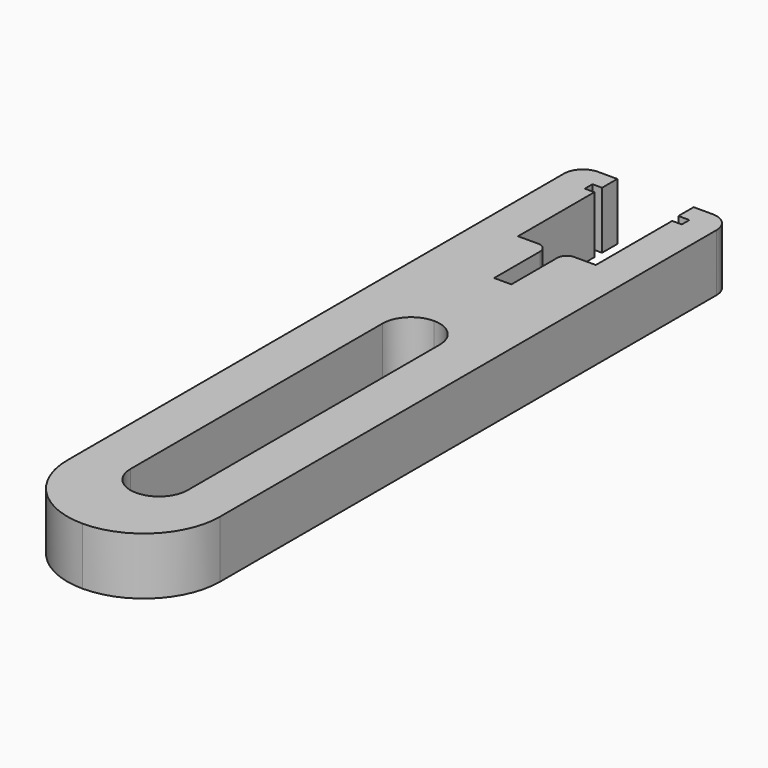
from build123d import *

# Parameters (mm, degrees)
F1_DEPTH = 6


with BuildPart() as f1:
    # F0 (on Top) → F1 (new body)
    with BuildSketch(Plane.XY):
        with BuildLine():
            ThreePointArc((2.672569, 65.670302), (1.258356, 65.084515), (0.672569, 63.670302))
            Line((0.672569, 63.670302), (0.672569, -1.329698))
            ThreePointArc((0.672569, -1.329698), (3.015715, -6.986552), (8.672569, -9.329698))
            ThreePointArc((8.672569, -9.329698), (14.329423, -6.986552), (16.672569, -1.329698))
            Line((16.672569, -1.329698), (16.672569, 63.670302))
            ThreePointArc((16.672569, 63.670302), (16.086783, 65.084515), (14.672569, 65.670302))
            Line((14.672569, 65.670302), (12.672569, 65.670302))
            Line((12.672569, 65.670302), (12.672569, 63.670302))
            Line((12.672569, 63.670302), (13.822569, 63.670302))
            Line((13.822569, 63.670302), (13.822569, 62.670302))
            Line((13.822569, 62.670302), (12.822569, 62.670302))
            Line((12.822569, 62.670302), (12.822569, 52.670302))
            Line((12.822569, 52.670302), (10.572569, 52.670302))
            ThreePointArc((10.572569, 52.670302), (9.865462, 52.377409), (9.572569, 51.670302))
            Line((9.572569, 51.670302), (9.572569, 45.670302))
            Line((9.572569, 45.670302), (7.772569, 45.670302))
            Line((7.772569, 45.670302), (7.772569, 51.670302))
            ThreePointArc((7.772569, 51.670302), (7.479676, 52.377409), (6.772569, 52.670302))
            Line((6.772569, 52.670302), (4.672569, 52.670302))
            Line((4.672569, 52.670302), (4.672569, 62.670302))
            Line((4.672569, 62.670302), (3.672569, 62.670302))
            Line((3.672569, 62.670302), (3.672569, 63.670302))
            Line((3.672569, 63.670302), (4.672569, 63.670302))
            Line((4.672569, 63.670302), (4.672569, 65.670302))
            Line((4.672569, 65.670302), (2.672569, 65.670302))
        make_face()
        with BuildLine():
            Line((11.672569, 17.170302), (11.672569, 0.670302))
            ThreePointArc((11.672569, 0.670302), (10.793889, -1.451018), (8.672569, -2.329698))
            ThreePointArc((8.672569, -2.329698), (6.551249, -1.451018), (5.672569, 0.670302))
            Line((5.672569, 0.670302), (5.672569, 17.170302))
            Line((5.672569, 17.170302), (5.672569, 33.670302))
            ThreePointArc((5.672569, 33.670302), (6.551249, 35.791622), (8.672569, 36.670302))
            ThreePointArc((8.672569, 36.670302), (10.793889, 35.791622), (11.672569, 33.670302))
            Line((11.672569, 33.670302), (11.672569, 17.170302))
        make_face(mode=Mode.SUBTRACT)
    extrude(amount=F1_DEPTH)


solid = f1.part
